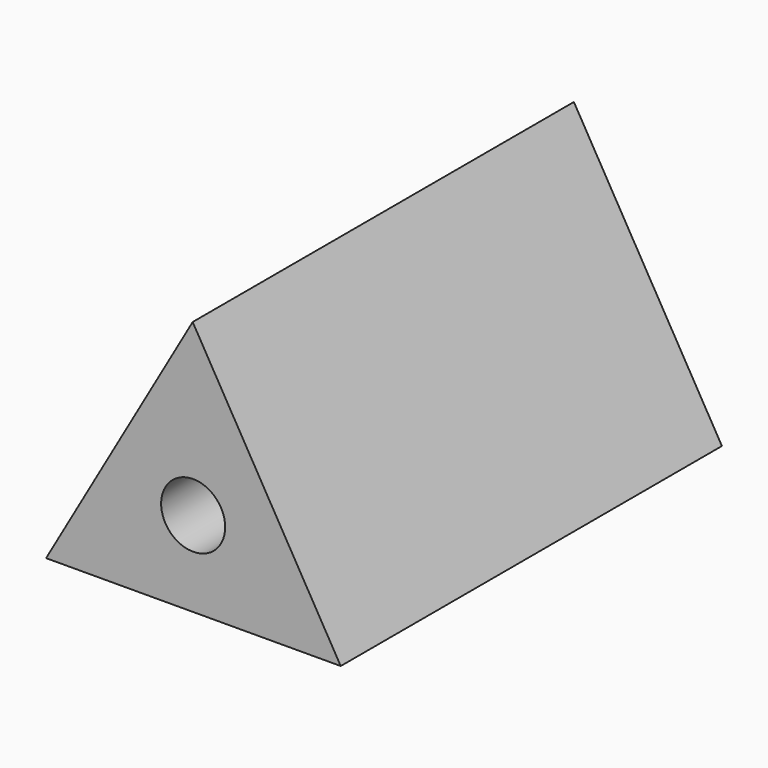
from build123d import *

# Parameters (mm, degrees)
F1_DEPTH = 47.244
F2_R     = 6.35
F3_DEPTH = 94.489


with BuildPart() as f1:
    # F0 (on Front) → F1 (new body, symmetric)
    with BuildSketch(Plane.XZ):
        Polygon((29.260233, -16.784588), (-0.094237, 33.732399), (-29.165996, -16.947811), align=None)
    extrude(amount=F1_DEPTH, both=True)

    # F2 (on face) → F3 (cut, through all)
    with BuildSketch(Plane.XZ.offset(47.244)):
        Circle(F2_R)
    extrude(amount=-F3_DEPTH, mode=Mode.SUBTRACT)


solid = f1.part
